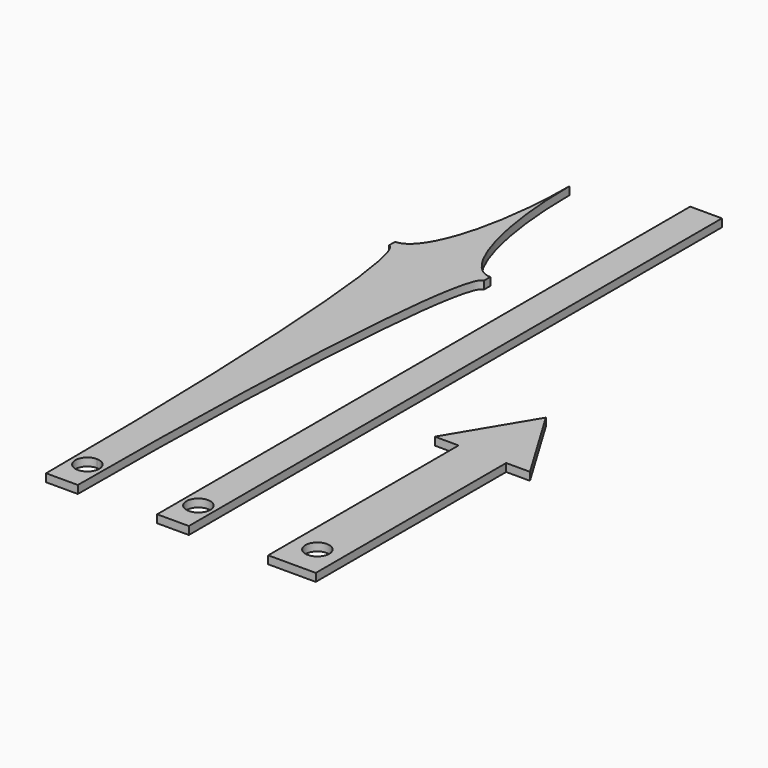
from build123d import *

# Parameters (mm, degrees)
F0_W     = 10
F0_H     = 2.5
F1_DEPTH = 2.5
F2_W     = 10
F2_H     = 210
F2_R     = 3.75
F3_DEPTH = 2.5
F4_R     = 3.75
F5_DEPTH = 2.5


with BuildPart() as f1:
    # F0 (on Top) → F1 (new body)
    with BuildSketch(Plane.XY):
        with BuildLine():
            Line((0, 6.25), (0, 0))
            Line((0, 0), (5, 0))
            add(Edge.make_bspline(
                [(15, 147.5), (5, 147.5), (5, 0)],
                knots=[3.1415926536, 3.1415926536, 3.1415926536, 4.7123889804, 4.7123889804, 4.7123889804], degree=2, weights=[1, 0.7071067812, 1]))
            Line((15, 147.5), (5, 147.5))
            Line((5, 147.5), (5, 150))
            Line((5, 150), (0, 150))
            Line((0, 150), (0, 13.75))
            ThreePointArc((0, 13.75), (2.6516504294, 12.6516504294), (3.75, 10))
            ThreePointArc((3.75, 10), (2.6516504294, 7.3483495706), (0, 6.25))
        make_face()
        with Locations((10, 148.75)):
            Rectangle(F0_W, F0_H)
        with BuildLine():
            Line((0, 200), (0, 150))
            Line((0, 150), (5, 150))
            Line((5, 150), (15, 150))
            add(Edge.make_bspline(
                [(0, 200), (0, 150), (15, 150)],
                knots=[4.7123889804, 4.7123889804, 4.7123889804, 6.2831853072, 6.2831853072, 6.2831853072], degree=2, weights=[1, 0.7071067812, 1]))
        make_face()
        with BuildLine():
            Line((-5, 0), (0, 0))
            Line((0, 0), (0, 6.25))
            ThreePointArc((0, 6.25), (-3.75, 10), (0, 13.75))
            Line((0, 13.75), (0, 150))
            Line((0, 150), (0, 200))
            add(Edge.make_bspline(
                [(-15, 150), (0, 150), (0, 200)],
                knots=[3.1415926536, 3.1415926536, 3.1415926536, 4.7123889804, 4.7123889804, 4.7123889804], degree=2, weights=[1, 0.7071067812, 1]))
            Line((-15, 150), (-15, 147.5))
            add(Edge.make_bspline(
                [(-5, 0), (-5, 147.5), (-15, 147.5)],
                knots=[1.5707963268, 1.5707963268, 1.5707963268, 3.1415926536, 3.1415926536, 3.1415926536], degree=2, weights=[1, 0.7071067812, 1]))
        make_face()
    extrude(amount=F1_DEPTH)


with BuildPart() as f3:
    # F2 (on Top) → F3 (new body)
    with BuildSketch(Plane.XY):
        with Locations((35, 105)):
            Rectangle(F2_W, F2_H)
        with Locations((35, 10)):
            Circle(F2_R, mode=Mode.SUBTRACT)
    extrude(amount=F3_DEPTH)


with BuildPart() as f5:
    # F4 (on Top) → F5 (new body)
    with BuildSketch(Plane.XY):
        Polygon((65, 75), (65, 0), (80, 0), (80, 75), (87.5, 75), (72.5, 100), (57.5, 75), align=None)
        with Locations((72.5, 10)):
            Circle(F4_R, mode=Mode.SUBTRACT)
    extrude(amount=F5_DEPTH)


solid = Compound([f1.part, f3.part, f5.part])
